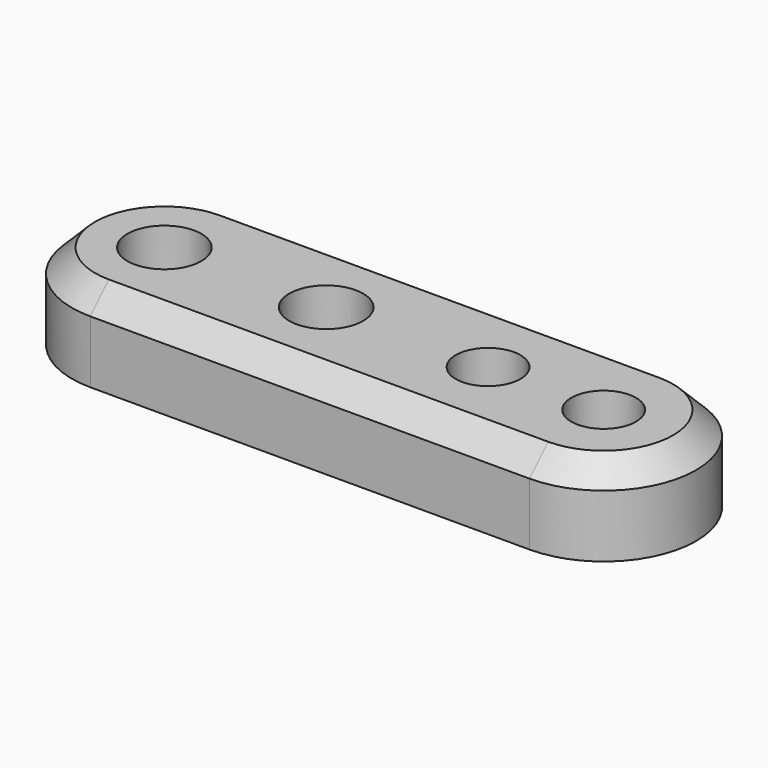
from build123d import *

# Parameters (mm, degrees)
F1_R     = 1.6
F1_R_2   = 1.4
F2_DEPTH = 3.7
F3_SIZE  = 1


with BuildPart() as f2:
    # F1 (on Top) → F2 (new body)
    with BuildSketch(Plane.XY):
        with BuildLine():
            Line((9.5, 4), (-9.5, 4))
            ThreePointArc((-9.5, 4), (-13.5, 0), (-9.5, -4))
            Line((-9.5, -4), (9.5, -4))
            ThreePointArc((9.5, -4), (13.5, 0), (9.5, 4))
        make_face()
        with Locations((-9.5, 0)):
            Circle(F1_R, mode=Mode.SUBTRACT)
        with Locations((-2.5, 0)):
            Circle(F1_R, mode=Mode.SUBTRACT)
        with Locations((4.5, 0)):
            Circle(F1_R_2, mode=Mode.SUBTRACT)
        with Locations((9.5, 0)):
            Circle(F1_R_2, mode=Mode.SUBTRACT)
    extrude(amount=F2_DEPTH)

    # F3
    f3_edges = [f2.edges().sort_by_distance(p)[0] for p in [
        (0, -4, 3.7),
        (13.5, 0, 3.7),
        (0, 4, 3.7),
        (-13.5, 0, 3.7),
    ]]
    chamfer(f3_edges, length=F3_SIZE)


solid = f2.part
